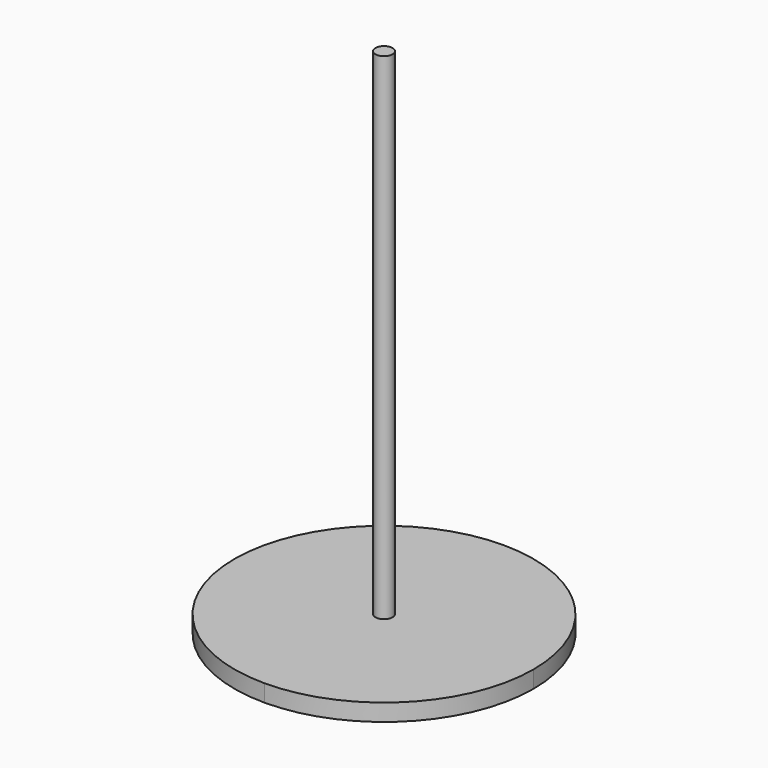
from build123d import *

# Parameters (mm, degrees)
F0_R     = 8.2478578746
F0_R_2   = 0.5
F1_DEPTH = 1
F2_DEPTH = 29
F3_W     = 2
F3_H     = 10
F4_DEPTH = 0.5


with BuildPart() as f1:
    # F0 (on Top) → F1 (new body)
    with BuildSketch(Plane.XY):
        with BuildLine():
            ThreePointArc((9.6811072342, 1.7517649983), (7.1182915696, 7.9389493337), (0.9311072342, 10.5017649983))
            ThreePointArc((0.9311072342, 10.5017649983), (-5.2560770936, 7.9389493412), (-7.8188927658, 1.7517650196))
            ThreePointArc((-7.8188927658, 1.7517650196), (-5.2560771201, -4.4354193182), (0.931107202, -6.9982350017))
            ThreePointArc((0.931107202, -6.9982350017), (7.1182915582, -4.4354193485), (9.6811072342, 1.7517649983))
        make_face()
        with Locations((0.9311072342, 1.7517649983)):
            Circle(F0_R, mode=Mode.SUBTRACT)
        with Locations((0.9311072342, 1.7517649983)):
            Circle(F0_R)
        with Locations((0.9311072342, 1.7517649983)):
            Circle(F0_R_2, mode=Mode.SUBTRACT)
        with Locations((0.9311072342, 1.7517649983)):
            Circle(F0_R_2)
    extrude(amount=-F1_DEPTH)

    # F3 (on face) → F4 (cut)
    with BuildSketch(Plane(origin=(0, 0, -1), x_dir=(1, 0, 0), z_dir=(0, 0, -1))):
        with Locations((0.9311072342, -1.7517649983)):
            Rectangle(F3_W, F3_H)
    extrude(amount=-F4_DEPTH, mode=Mode.SUBTRACT)


with BuildPart() as f2:
    # F0 (on Top) → F2 (new body)
    with BuildSketch(Plane.XY):
        with Locations((0.9311072342, 1.7517649983)):
            Circle(F0_R_2)
    extrude(amount=F2_DEPTH)


solid = Compound([f1.part, f2.part])
